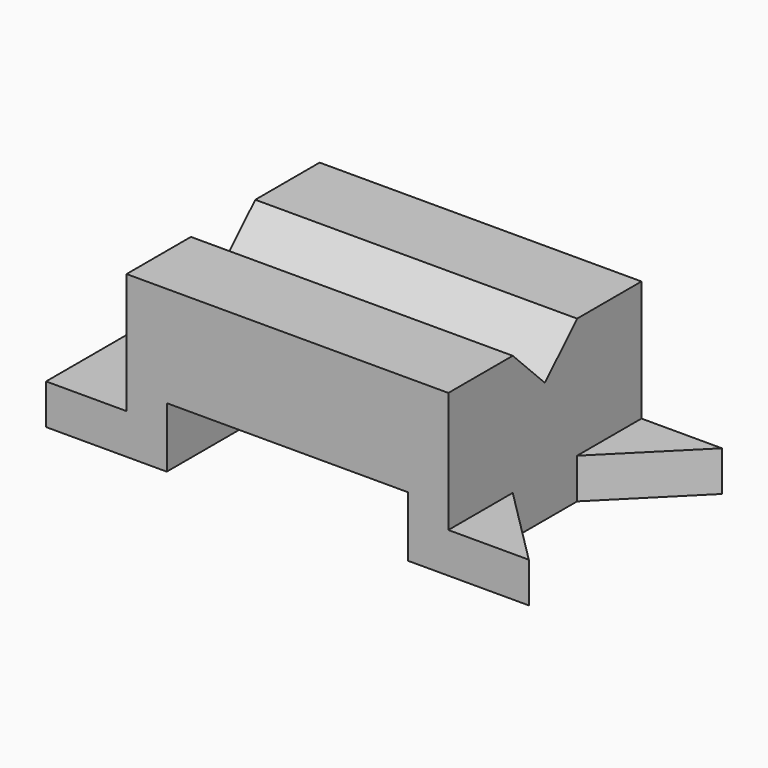
from build123d import *

# Parameters (mm, degrees)
F1_DEPTH  = 76.2
F2_DEPTH  = 50.8
F3_DEPTH  = 25.4
F0_W      = 25.4
F0_H      = 12.7
F4_DEPTH  = 76.2
F5_DEPTH  = 76.2
F6_DEPTH  = 76.2
F7_DEPTH  = 76.2
F8_DEPTH  = 25.4
F9_W      = 76.2
F9_H      = 19.05
F10_DEPTH = 76.2
F12_DEPTH = 12.7
F13_DEPTH = 12.7


with BuildPart() as f1:
    # F0 (on Right) → F1 (new body)
    with BuildSketch(Plane.YZ):
        Polygon((-15.180611676, 12.7), (-15.180611676, 0), (10.219388324, 0), (10.219388324, 12.7), (35.619388324, 12.7), (35.619388324, 50.8), (10.219388324, 50.8), (-2.480611676, 38.1), (-15.180611676, 50.8), (-40.580611676, 50.8), (-40.580611676, 12.7), align=None)
    extrude(amount=F1_DEPTH)

    # F2 (add): faces of the model
    f2_faces = [f1.faces().sort_by_distance(p)[0] for p in [
        (0, -2.480611676, 28.2964912281),
        (76.2, -2.480611676, 28.2964912281),
    ]]
    extrude(f2_faces, amount=F2_DEPTH, dir=(-1, 0, 0))

    # F3 (cut): a face of the model
    f3_faces = [f1.faces().sort_by_distance(p)[0] for p in [
        (76.2, -2.480611676, 28.2964912281),
    ]]
    extrude(f3_faces, amount=-F3_DEPTH, mode=Mode.SUBTRACT)

    # F0 (on Right) → F4 (join)
    with BuildSketch(Plane.YZ):
        with Locations((-27.880611676, 6.35)):
            Rectangle(F0_W, F0_H)
    extrude(amount=F4_DEPTH)

    # F0 (on Right) → F5 (join)
    with BuildSketch(Plane.YZ):
        with Locations((22.919388324, 6.35)):
            Rectangle(F0_W, F0_H)
    extrude(amount=F5_DEPTH)

    # F0 (on Right) → F6 (join)
    with BuildSketch(Plane.YZ):
        with Locations((22.919388324, 6.35)):
            Rectangle(F0_W, F0_H)
    extrude(amount=-F6_DEPTH)

    # F0 (on Right) → F7 (join)
    with BuildSketch(Plane.YZ):
        with Locations((-27.880611676, 6.35)):
            Rectangle(F0_W, F0_H)
    extrude(amount=-F7_DEPTH)

    # F8 (add): a face of the model
    f8_faces = [f1.faces().sort_by_distance(p)[0] for p in [
        (-63.5, -15.180611676, 6.35),
    ]]
    extrude(f8_faces, amount=F8_DEPTH)

    # F9 (on face) → F10 (cut)
    with BuildSketch(Plane.XZ.offset(40.580611676)):
        with Locations((0, 9.525)):
            Rectangle(F9_W, F9_H)
    extrude(amount=-F10_DEPTH, mode=Mode.SUBTRACT)

    # F11 (on face) → F12 (cut)
    with BuildSketch(Plane.XY.offset(12.7)):
        Polygon((50.8, -15.180611676), (76.2, -40.580611676), (76.2, -15.180611676), align=None)
    extrude(amount=-F12_DEPTH, mode=Mode.SUBTRACT)

    # F11 (on face) → F13 (cut)
    with BuildSketch(Plane.XY.offset(12.7)):
        Polygon((50.8, 10.219388324), (50.8, -15.180611676), (76.2, -15.180611676), (76.2, 35.619388324), align=None)
    extrude(amount=-F13_DEPTH, mode=Mode.SUBTRACT)


solid = f1.part
